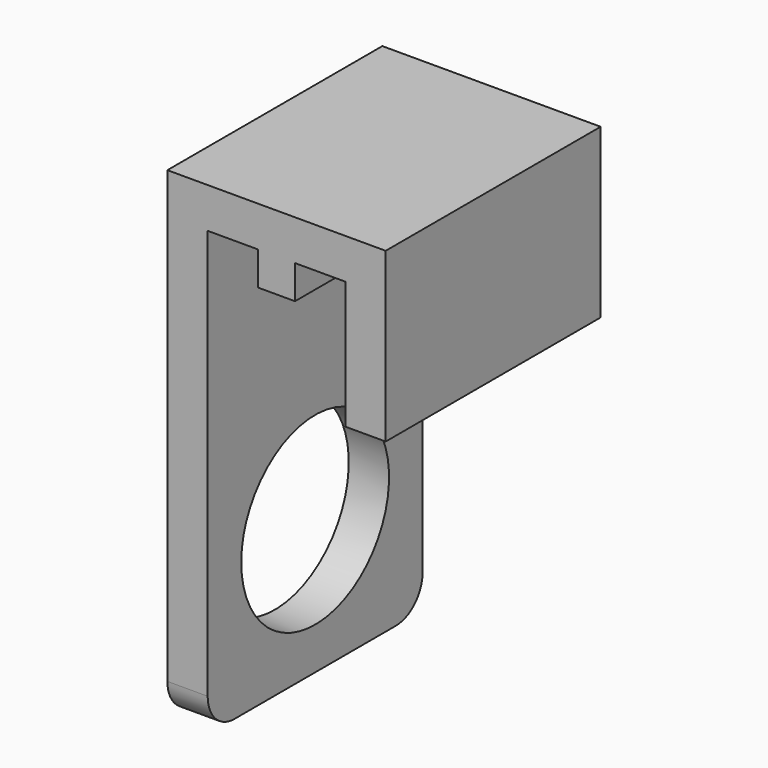
from build123d import *

# Parameters (mm, degrees)
F0_W     = 5.5
F0_H     = 5
F0_W_2   = 7.5
F0_H_2   = 6
F1_DEPTH = 40
F2_R     = 5
F3_R     = 13.75
F4_DEPTH = 25


with BuildPart() as f1:
    # F0 (on Front) → F1 (new body)
    with BuildSketch(Plane.XZ):
        Polygon((0, 72), (0, 0), (6, 0), (6, 66), (6, 72), align=None)
        Polygon((6, 72), (6, 66), (13.5, 66), (19, 66), (19, 72), align=None)
        with Locations((16.25, 63.5)):
            Rectangle(F0_W, F0_H)
        with Locations((22.75, 69)):
            Rectangle(F0_W_2, F0_H_2)
        Polygon((32.5, 72), (26.5, 72), (26.5, 66), (26.5, 47), (32.5, 47), align=None)
    extrude(amount=F1_DEPTH)

    # F2
    f2_edges = [f1.edges().sort_by_distance(p)[0] for p in [
        (3, 0, 0),
        (3, -40, 0),
    ]]
    fillet(f2_edges, radius=F2_R)

    # F3 (on face) → F4 (cut)
    with BuildSketch(Plane(origin=(0, 0, 0), x_dir=(0, -1, 0), z_dir=(-1, 0, 0))):
        with Locations((20, 20)):
            Circle(F3_R)
    extrude(amount=-F4_DEPTH, mode=Mode.SUBTRACT)


solid = f1.part
